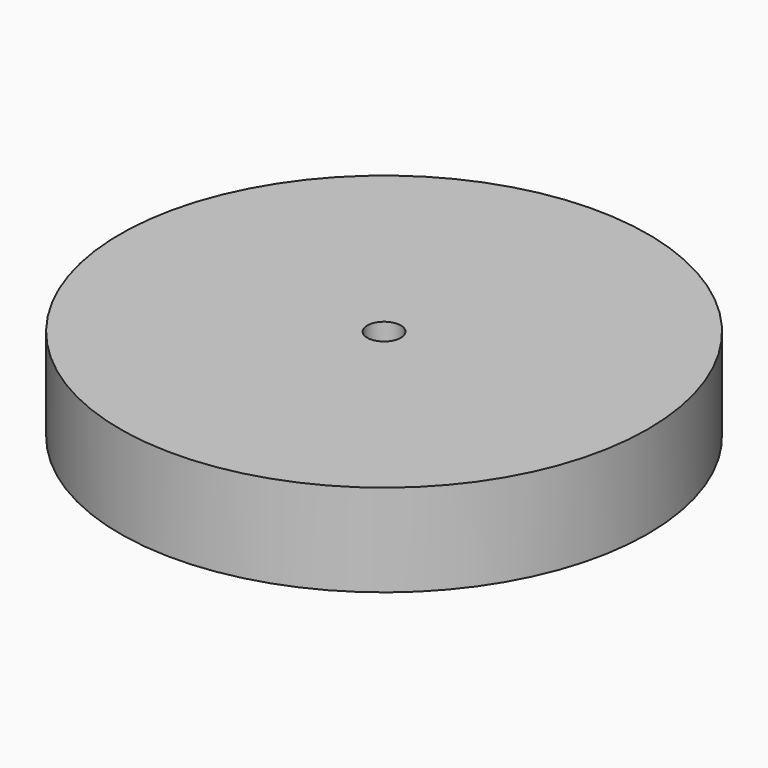
from build123d import *

# Parameters (mm, degrees)
F0_R     = 31.5
F1_DEPTH = 11
F3_D     = 4


with BuildPart() as f1:
    # F0 (on Top) → F1 (new body)
    with BuildSketch(Plane.XY):
        Circle(F0_R)
        Circle(F0_R)
    extrude(amount=F1_DEPTH)

    # F3 (through all)
    with Locations(Plane.XY.offset(11)):
        with Locations((0, 0)):
            Hole(F3_D / 2)


solid = f1.part
